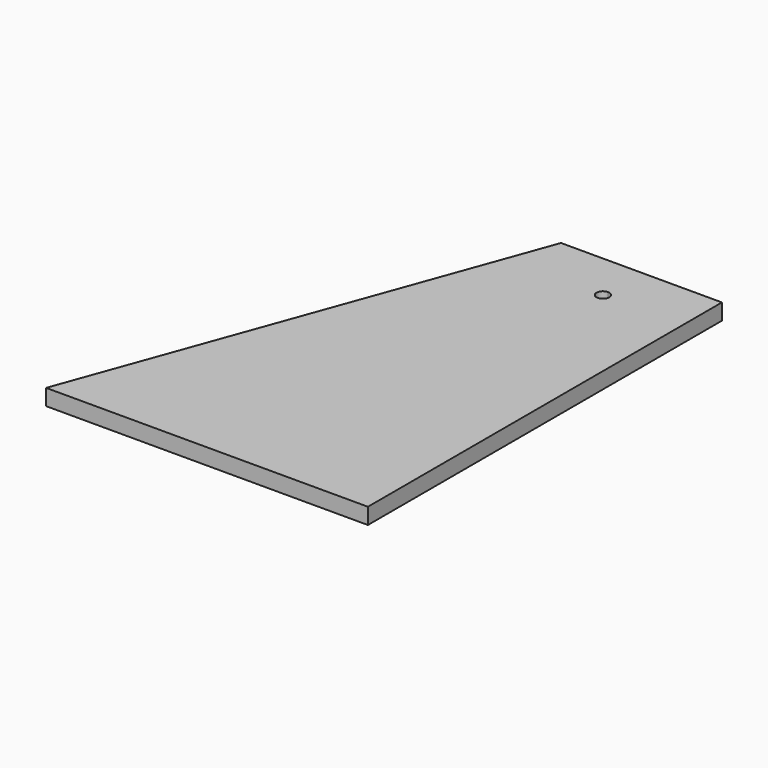
from build123d import *

# Parameters (mm, degrees)
F1_DEPTH = 1.27


with BuildPart() as f1:
    # F0 (on Top) → F1 (new body, symmetric)
    with BuildSketch(Plane.XY):
        Polygon((25.4, -34.925), (25.4, 34.925), (12.7, 34.925), (0, 34.925), (-25.4, -34.925), align=None)
        with BuildLine():
            ThreePointArc((13.7, 27.305), (11.992893, 26.597893), (12.7, 28.305))
            ThreePointArc((12.7, 28.305), (13.407107, 28.012107), (13.7, 27.305))
        make_face(mode=Mode.SUBTRACT)
    extrude(amount=F1_DEPTH, both=True)


solid = f1.part
